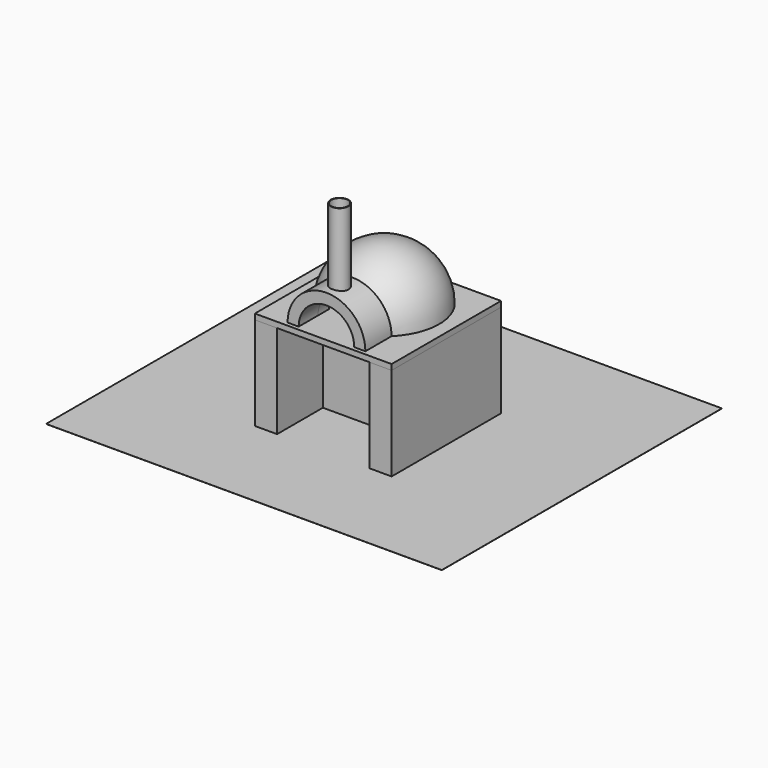
from build123d import *

# Parameters (mm, degrees)
F12_DEPTH = 496.8263968254
F16_R     = 75
F17_DEPTH = 351.0000000992
F19_R     = 80
F19_R_2   = 75
F20_DEPTH = 660.265499352
F21_W     = 1230
F21_H     = 1230
F22_DEPTH = 50
F23_W     = 3559.0991973877
F23_H     = 3148.6513614655
F24_DEPTH = 1
F26_DEPTH = 840


with BuildPart() as f10:
    # F9 (on Front) → F10 (revolve)
    with BuildSketch(Plane.XZ):
        with BuildLine():
            Line((-496.8253968254, 890), (-396.8253968254, 890))
            ThreePointArc((-396.8253968254, 890), (-280.5979290423, 1170.5979290423), (0, 1286.8253968254))
            Line((0, 1286.8253968254), (0, 1386.8253968254))
            ThreePointArc((0, 1386.8253968254), (-351.3086071609, 1241.3086071609), (-496.8253968254, 890))
        make_face()
    revolve(axis=Axis((0, 0, 1037.9446418654), (0, 0, 1)))

    # F11 (on Front) → F12 (cut, through all)
    with BuildSketch(Plane.XZ):
        with BuildLine():
            ThreePointArc((250, 890), (0, 1140), (-250, 890))
            Line((-250, 890), (250, 890))
        make_face()
    extrude(amount=F12_DEPTH, mode=Mode.SUBTRACT)

    # F14 (on offset) → F15 (join, up to the next surface of F10)
    with BuildSketch(Plane.XZ.offset(646.8253968254)):
        with BuildLine():
            Line((-350, 890), (-250, 890))
            ThreePointArc((-250, 890), (0, 1140), (250, 890))
            Line((250, 890), (350, 890))
            ThreePointArc((350, 890), (0, 1240), (-350, 890))
        make_face()
    extrude(until=Until.NEXT, dir=(0, 1, 0))

    # F16 (on offset) → F17 (cut, up to face)
    with BuildSketch(Plane.XY.offset(890)):
        with Locations((0, -499.7188773534)):
            Circle(F16_R)
    extrude(amount=F17_DEPTH, mode=Mode.SUBTRACT)

    # F19 (on offset) → F20 (join, up to face)
    with BuildSketch(Plane.XY.offset(1890)):
        with Locations((0, -499.7188773534)):
            Circle(F19_R)
        with Locations((0, -499.7188773534)):
            Circle(F19_R_2, mode=Mode.SUBTRACT)
    extrude(amount=-F20_DEPTH)


with BuildPart() as f22:
    # F21 (on offset) → F22 (new body)
    with BuildSketch(Plane.XY.offset(890)):
        with Locations((0, -68.1746031746)):
            Rectangle(F21_W, F21_H)
    extrude(amount=-F22_DEPTH)


with BuildPart() as f24:
    # F23 (on Top) → F24 (new body)
    with BuildSketch(Plane.XY):
        Rectangle(F23_W, F23_H)
    extrude(amount=-F24_DEPTH)


with BuildPart() as f26:
    # F25 (on Top) → F26 (new body)
    with BuildSketch(Plane.XY):
        Polygon((-415, 546.8253968254), (-615, 546.8253968254), (-615, -683.1746031746), (-415, -683.1746031746), (-415, -168.1746031746), (415, -168.1746031746), (415, -683.1746031746), (615, -683.1746031746), (615, 546.8253968254), (415, 546.8253968254), (415, 31.8253968254), (-415, 31.8253968254), align=None)
    extrude(amount=F26_DEPTH)


solid = Compound([f10.part, f22.part, f24.part, f26.part])
